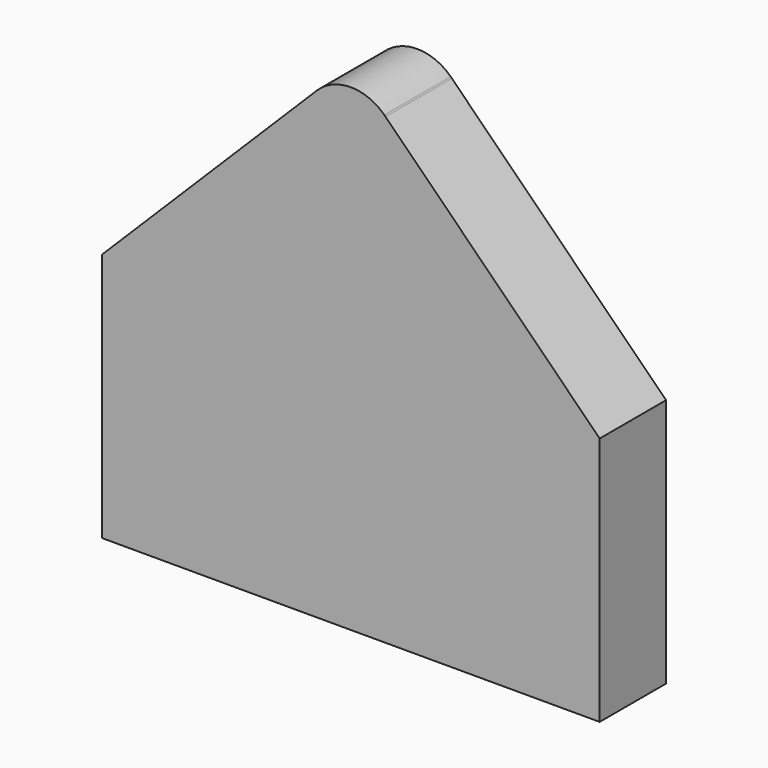
from build123d import *

# Parameters (mm, degrees)
F1_DEPTH = 12.7


with BuildPart() as f1:
    # F0 (on Front) → F1 (new body)
    with BuildSketch(Plane.XZ):
        with BuildLine():
            Line((0, 38.199143), (0, 0))
            Line((0, 0), (76.2, 0))
            Line((76.2, 0), (76.2, 38.199143))
            Line((76.2, 38.199143), (43.408294, 70.905519))
            Line((43.408294, 70.905519), (43.23573, 71.077634))
            ThreePointArc((43.23573, 71.077634), (38.1, 73.151625), (32.96427, 71.077634))
            Line((32.96427, 71.077634), (32.791706, 70.905519))
            Line((32.791706, 70.905519), (0, 38.199143))
        make_face()
        with BuildLine():
            ThreePointArc((32.96427, 71.077634), (32.877279, 70.992288), (32.791706, 70.905519))
            Line((32.791706, 70.905519), (32.96427, 71.077634))
        make_face()
        with BuildLine():
            Line((43.23573, 71.077634), (43.408294, 70.905519))
            ThreePointArc((43.408294, 70.905519), (43.322721, 70.992288), (43.23573, 71.077634))
        make_face()
    extrude(amount=F1_DEPTH)


solid = f1.part
